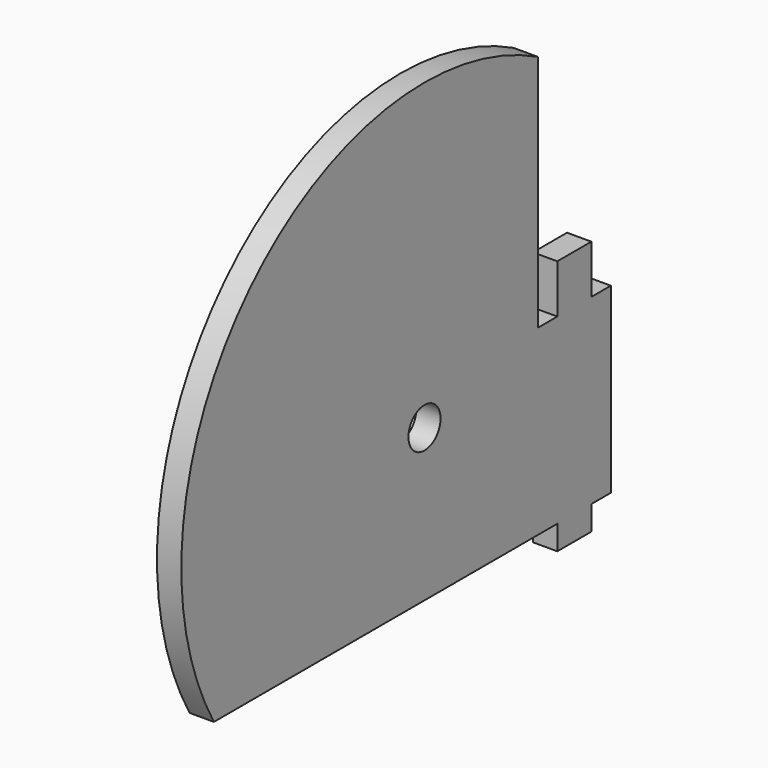
from build123d import *

# Parameters (mm, degrees)
F0_R     = 1.65
F1_DEPTH = 2


with BuildPart() as f1:
    # F0 (on Right) → F1 (new body)
    with BuildSketch(Plane.YZ):
        with BuildLine():
            Line((-29, 0), (-31, 0))
            Line((-31, 0), (-31, 4))
            Line((-31, 4), (-31, 19.617821))
            ThreePointArc((-31, 19.617821), (-60.66964, 14.832498), (-64.304047, -15))
            Line((-64.304047, -15), (-42.653412, -15))
            Line((-42.653412, -15), (-29, -15))
            Line((-29, -15), (-29, -17))
            Line((-29, -17), (-25.5, -17))
            Line((-25.5, -17), (-25.5, -15))
            Line((-25.5, -15), (-23.5, -15))
            Line((-23.5, -15), (-23.5, 0))
            Line((-23.5, 0), (-25.5, 0))
            Line((-25.5, 0), (-25.5, 4))
            Line((-25.5, 4), (-29, 4))
            Line((-29, 4), (-29, 0))
        make_face()
        with Locations((-42.653412, -2.5)):
            Circle(F0_R, mode=Mode.SUBTRACT)
    extrude(amount=F1_DEPTH)


solid = f1.part
